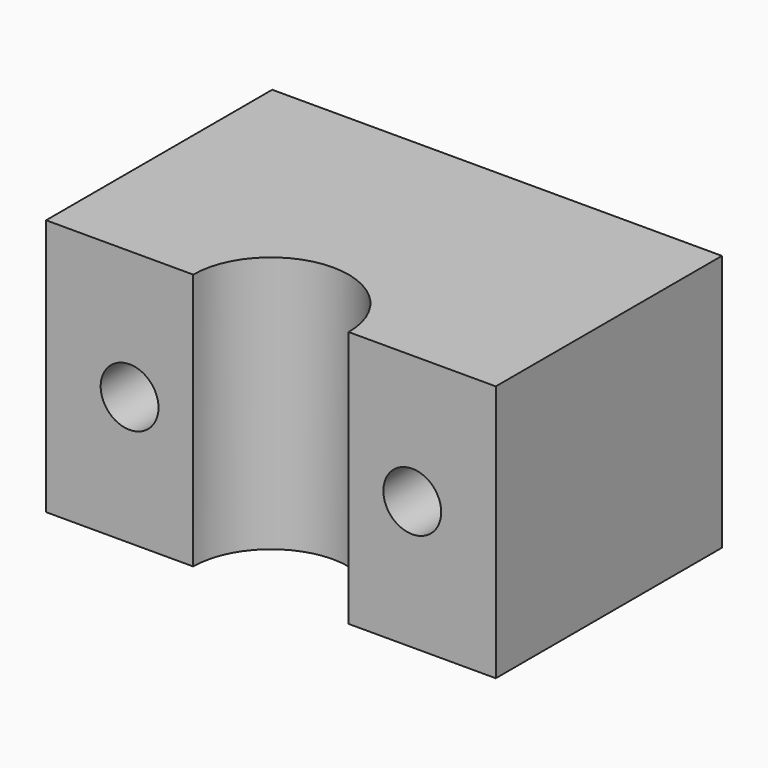
from build123d import *

# Parameters (mm, degrees)
PAD_DEPTH    = 20
SKETCH001_R  = 2.25
POCKET_DEPTH = 22.001


with BuildPart() as part:
    # Sketch → Pad (new body)
    with BuildSketch(Plane.XY):
        with BuildLine():
            Line((-17.5, 22), (17.5, 22))
            Line((17.5, 22), (17.5, 0))
            Line((17.5, 0), (6.05, 0))
            ThreePointArc((6.05, 0), (0, 6.05), (-6.05, 0))
            Line((-17.5, 0), (-6.05, 0))
            Line((-17.5, 0), (-17.5, 22))
        make_face()
    extrude(amount=PAD_DEPTH)

    # Sketch001 → Pocket (cut, through all)
    with BuildSketch(Plane.XZ):
        with Locations((-11, 10)):
            Circle(SKETCH001_R)
        with Locations((11, 10)):
            Circle(SKETCH001_R)
    extrude(amount=-POCKET_DEPTH, mode=Mode.SUBTRACT)


solid = part.part
